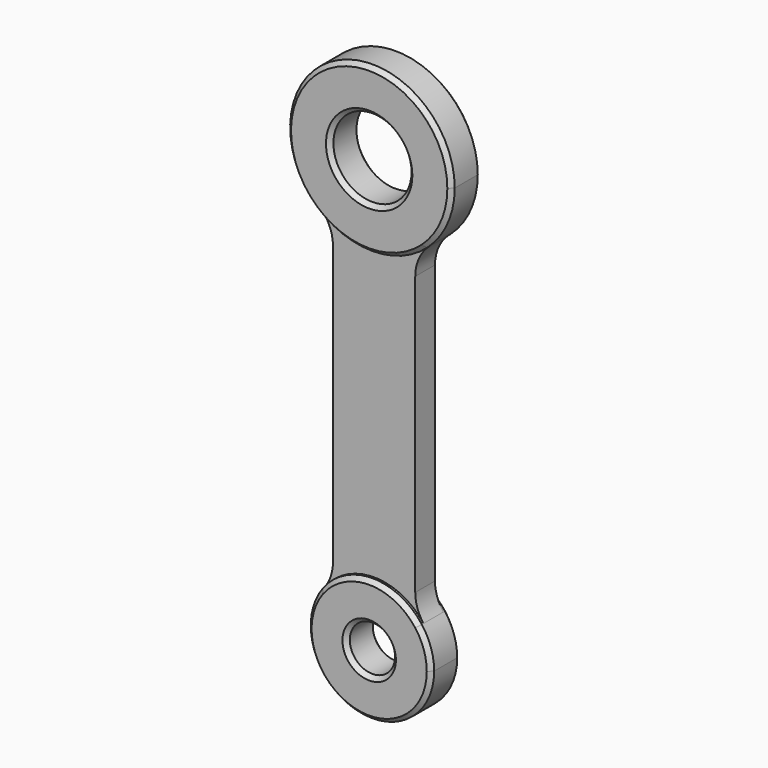
from build123d import *

# Parameters (mm, degrees)
F1_DEPTH = 3
F0_R     = 9.5
F0_R_2   = 5.5
F2_DEPTH = 4.5
F3_SIZE  = 1


with BuildPart() as f1:
    # F0 (on Front) → F1 (new body, symmetric)
    with BuildSketch(Plane.XZ):
        with BuildLine():
            ThreePointArc((13.333333, 90.09288), (0, 85), (-13.333333, 90.09288))
            ThreePointArc((-13.333333, 90.09288), (-10.871291, 86.721803), (-10, 82.63932))
            Line((-10, 82.63932), (-10, 15))
            ThreePointArc((-10, 15), (-10.513167, 11.837722), (-12, 9))
            ThreePointArc((-12, 9), (0, 15), (12, 9))
            ThreePointArc((12, 9), (10.513167, 11.837722), (10, 15))
            Line((10, 15), (10, 82.63932))
            ThreePointArc((10, 82.63932), (10.871291, 86.721803), (13.333333, 90.09288))
        make_face()
    extrude(amount=F1_DEPTH, both=True)

    # F0 (on Front) → F2 (join, symmetric)
    with BuildSketch(Plane.XZ):
        with BuildLine():
            ThreePointArc((13.333333, 90.09288), (18.257419, 96.835034), (20, 105))
            ThreePointArc((20, 105), (-8.164966, 123.257419), (-13.333333, 90.09288))
            ThreePointArc((-13.333333, 90.09288), (0, 85), (13.333333, 90.09288))
        make_face()
        with Locations((0, 105)):
            Circle(F0_R, mode=Mode.SUBTRACT)
        with BuildLine():
            ThreePointArc((12, 9), (0, 15), (-12, 9))
            ThreePointArc((-12, 9), (-4.743416, -14.230249), (15, 0))
            ThreePointArc((15, 0), (14.230249, 4.743416), (12, 9))
        make_face()
        Circle(F0_R_2, mode=Mode.SUBTRACT)
    extrude(amount=F2_DEPTH, both=True)

    # F3
    f3_edges = [f1.edges().sort_by_distance(p)[0] for p in [
        (18.257419, -4.5, 96.835034),
        (-8.164966, -4.5, 123.257419),
        (0, -4.5, 85),
        (-9.5, -4.5, 105),
        (14.230249, -4.5, 4.743416),
        (0, -4.5, 15),
        (-4.743416, -4.5, -14.230249),
        (-5.5, -4.5, 0),
        (-4.743416, 4.5, -14.230249),
        (-5.5, 4.5, 0),
        (18.257419, 4.5, 96.835034),
        (-8.164966, 4.5, 123.257419),
        (0, 4.5, 85),
        (-9.5, 4.5, 105),
    ]]
    chamfer(f3_edges, length=F3_SIZE)


solid = f1.part
